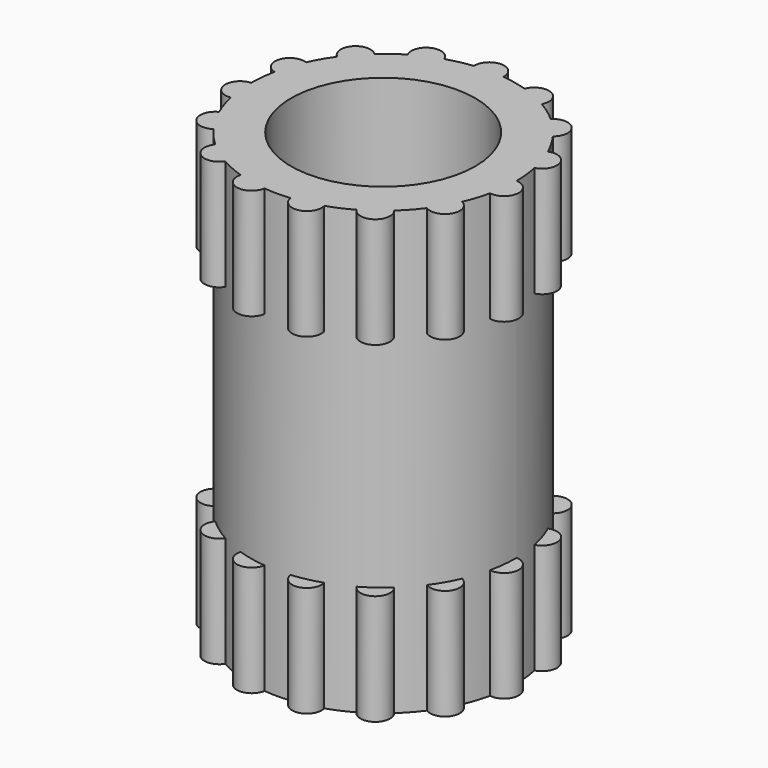
from build123d import *

# Parameters (mm, degrees)
SKETCH_R                     = 1.8
SKETCH_R_2                   = 1.25
PAD_DEPTH                    = 3
PAD_DEPTH_BACK               = 3
SKETCH001_R                  = 0.2
PAD001_DEPTH                 = 1.5
SKETCH001_POLARPATTERN_2_R   = 0.2
PAD001_POLARPATTERN_2_DEPTH  = 1.5
SKETCH001_POLARPATTERN_3_R   = 0.2
PAD001_POLARPATTERN_3_DEPTH  = 1.5
SKETCH001_POLARPATTERN_4_R   = 0.2
PAD001_POLARPATTERN_4_DEPTH  = 1.5
SKETCH001_POLARPATTERN_5_R   = 0.2
PAD001_POLARPATTERN_5_DEPTH  = 1.5
SKETCH001_POLARPATTERN_6_R   = 0.2
PAD001_POLARPATTERN_6_DEPTH  = 1.5
SKETCH001_POLARPATTERN_7_R   = 0.2
PAD001_POLARPATTERN_7_DEPTH  = 1.5
SKETCH001_POLARPATTERN_8_R   = 0.2
PAD001_POLARPATTERN_8_DEPTH  = 1.5
SKETCH001_POLARPATTERN_9_R   = 0.2
PAD001_POLARPATTERN_9_DEPTH  = 1.5
SKETCH001_POLARPATTERN_10_R  = 0.2
PAD001_POLARPATTERN_10_DEPTH = 1.5
SKETCH001_POLARPATTERN_11_R  = 0.2
PAD001_POLARPATTERN_11_DEPTH = 1.5
SKETCH001_POLARPATTERN_12_R  = 0.2
PAD001_POLARPATTERN_12_DEPTH = 1.5
SKETCH001_POLARPATTERN_13_R  = 0.2
PAD001_POLARPATTERN_13_DEPTH = 1.5
SKETCH001_POLARPATTERN_14_R  = 0.2
PAD001_POLARPATTERN_14_DEPTH = 1.5
SKETCH001_POLARPATTERN_15_R  = 0.2
PAD001_POLARPATTERN_15_DEPTH = 1.5


with BuildPart() as part:
    # Sketch → Pad (new body, two sides)
    with BuildSketch(Plane.XY) as pad_sk:
        Circle(SKETCH_R)
        Circle(SKETCH_R_2, mode=Mode.SUBTRACT)
    extrude(amount=PAD_DEPTH)
    extrude(pad_sk.sketch, amount=-PAD_DEPTH_BACK)

    # Sketch001 (on Face4 of Pad) → Pad001 (join)
    with BuildSketch(Plane.XY.offset(3)):
        with Locations((0, 1.8)):
            Circle(SKETCH001_R)
    pad001 = extrude(amount=-PAD001_DEPTH)

    # Sketch001 PolarPattern 2 → Pad001 PolarPattern 2 (add)
    with BuildSketch(Plane(origin=(0, 0, 3), x_dir=(0.913545, 0.406737, 0), z_dir=(0, 0, 1))):
        with Locations((0, 1.8)):
            Circle(SKETCH001_POLARPATTERN_2_R)
    pad001_polarpattern_2 = extrude(amount=-PAD001_POLARPATTERN_2_DEPTH)

    # Sketch001 PolarPattern 3 → Pad001 PolarPattern 3 (add)
    with BuildSketch(Plane(origin=(0, 0, 3), x_dir=(0.669131, 0.743145, 0), z_dir=(0, 0, 1))):
        with Locations((0, 1.8)):
            Circle(SKETCH001_POLARPATTERN_3_R)
    pad001_polarpattern_3 = extrude(amount=-PAD001_POLARPATTERN_3_DEPTH)

    # Sketch001 PolarPattern 4 → Pad001 PolarPattern 4 (add)
    with BuildSketch(Plane(origin=(0, 0, 3), x_dir=(0.309017, 0.951057, 0), z_dir=(0, 0, 1))):
        with Locations((0, 1.8)):
            Circle(SKETCH001_POLARPATTERN_4_R)
    pad001_polarpattern_4 = extrude(amount=-PAD001_POLARPATTERN_4_DEPTH)

    # Sketch001 PolarPattern 5 → Pad001 PolarPattern 5 (add)
    with BuildSketch(Plane(origin=(0, 0, 3), x_dir=(-0.104528, 0.994522, 0), z_dir=(0, 0, 1))):
        with Locations((0, 1.8)):
            Circle(SKETCH001_POLARPATTERN_5_R)
    pad001_polarpattern_5 = extrude(amount=-PAD001_POLARPATTERN_5_DEPTH)

    # Sketch001 PolarPattern 6 → Pad001 PolarPattern 6 (add)
    with BuildSketch(Plane(origin=(0, 0, 3), x_dir=(-0.5, 0.866025, 0), z_dir=(0, 0, 1))):
        with Locations((0, 1.8)):
            Circle(SKETCH001_POLARPATTERN_6_R)
    pad001_polarpattern_6 = extrude(amount=-PAD001_POLARPATTERN_6_DEPTH)

    # Sketch001 PolarPattern 7 → Pad001 PolarPattern 7 (add)
    with BuildSketch(Plane(origin=(0, 0, 3), x_dir=(-0.809017, 0.587785, 0), z_dir=(0, 0, 1))):
        with Locations((0, 1.8)):
            Circle(SKETCH001_POLARPATTERN_7_R)
    pad001_polarpattern_7 = extrude(amount=-PAD001_POLARPATTERN_7_DEPTH)

    # Sketch001 PolarPattern 8 → Pad001 PolarPattern 8 (add)
    with BuildSketch(Plane(origin=(0, 0, 3), x_dir=(-0.978148, 0.207912, 0), z_dir=(0, 0, 1))):
        with Locations((0, 1.8)):
            Circle(SKETCH001_POLARPATTERN_8_R)
    pad001_polarpattern_8 = extrude(amount=-PAD001_POLARPATTERN_8_DEPTH)

    # Sketch001 PolarPattern 9 → Pad001 PolarPattern 9 (add)
    with BuildSketch(Plane(origin=(0, 0, 3), x_dir=(-0.978148, -0.207912, 0), z_dir=(0, 0, 1))):
        with Locations((0, 1.8)):
            Circle(SKETCH001_POLARPATTERN_9_R)
    pad001_polarpattern_9 = extrude(amount=-PAD001_POLARPATTERN_9_DEPTH)

    # Sketch001 PolarPattern 10 → Pad001 PolarPattern 10 (add)
    with BuildSketch(Plane(origin=(0, 0, 3), x_dir=(-0.809017, -0.587785, 0), z_dir=(0, 0, 1))):
        with Locations((0, 1.8)):
            Circle(SKETCH001_POLARPATTERN_10_R)
    pad001_polarpattern_10 = extrude(amount=-PAD001_POLARPATTERN_10_DEPTH)

    # Sketch001 PolarPattern 11 → Pad001 PolarPattern 11 (add)
    with BuildSketch(Plane(origin=(0, 0, 3), x_dir=(-0.5, -0.866025, 0), z_dir=(0, 0, 1))):
        with Locations((0, 1.8)):
            Circle(SKETCH001_POLARPATTERN_11_R)
    pad001_polarpattern_11 = extrude(amount=-PAD001_POLARPATTERN_11_DEPTH)

    # Sketch001 PolarPattern 12 → Pad001 PolarPattern 12 (add)
    with BuildSketch(Plane(origin=(0, 0, 3), x_dir=(-0.104528, -0.994522, 0), z_dir=(0, 0, 1))):
        with Locations((0, 1.8)):
            Circle(SKETCH001_POLARPATTERN_12_R)
    pad001_polarpattern_12 = extrude(amount=-PAD001_POLARPATTERN_12_DEPTH)

    # Sketch001 PolarPattern 13 → Pad001 PolarPattern 13 (add)
    with BuildSketch(Plane(origin=(0, 0, 3), x_dir=(0.309017, -0.951057, 0), z_dir=(0, 0, 1))):
        with Locations((0, 1.8)):
            Circle(SKETCH001_POLARPATTERN_13_R)
    pad001_polarpattern_13 = extrude(amount=-PAD001_POLARPATTERN_13_DEPTH)

    # Sketch001 PolarPattern 14 → Pad001 PolarPattern 14 (add)
    with BuildSketch(Plane(origin=(0, 0, 3), x_dir=(0.669131, -0.743145, 0), z_dir=(0, 0, 1))):
        with Locations((0, 1.8)):
            Circle(SKETCH001_POLARPATTERN_14_R)
    pad001_polarpattern_14 = extrude(amount=-PAD001_POLARPATTERN_14_DEPTH)

    # Sketch001 PolarPattern 15 → Pad001 PolarPattern 15 (add)
    with BuildSketch(Plane(origin=(0, 0, 3), x_dir=(0.913545, -0.406737, 0), z_dir=(0, 0, 1))):
        with Locations((0, 1.8)):
            Circle(SKETCH001_POLARPATTERN_15_R)
    pad001_polarpattern_15 = extrude(amount=-PAD001_POLARPATTERN_15_DEPTH)

    # Mirrored: Pad001, Pad001 PolarPattern 2, Pad001 PolarPattern 3, Pad001 PolarPattern 4, Pad001 PolarPattern 5, Pad001 PolarPattern 6, Pad001 PolarPattern 7, Pad001 PolarPattern 8, Pad001 PolarPattern 9, Pad001 PolarPattern 10, Pad001 PolarPattern 11, Pad001 PolarPattern 12, Pad001 PolarPattern 13, Pad001 PolarPattern 14, Pad001 PolarPattern 15 across XY
    add(pad001.mirror(Plane.XY))
    add(pad001_polarpattern_2.mirror(Plane.XY))
    add(pad001_polarpattern_3.mirror(Plane.XY))
    add(pad001_polarpattern_4.mirror(Plane.XY))
    add(pad001_polarpattern_5.mirror(Plane.XY))
    add(pad001_polarpattern_6.mirror(Plane.XY))
    add(pad001_polarpattern_7.mirror(Plane.XY))
    add(pad001_polarpattern_8.mirror(Plane.XY))
    add(pad001_polarpattern_9.mirror(Plane.XY))
    add(pad001_polarpattern_10.mirror(Plane.XY))
    add(pad001_polarpattern_11.mirror(Plane.XY))
    add(pad001_polarpattern_12.mirror(Plane.XY))
    add(pad001_polarpattern_13.mirror(Plane.XY))
    add(pad001_polarpattern_14.mirror(Plane.XY))
    add(pad001_polarpattern_15.mirror(Plane.XY))


solid = part.part
